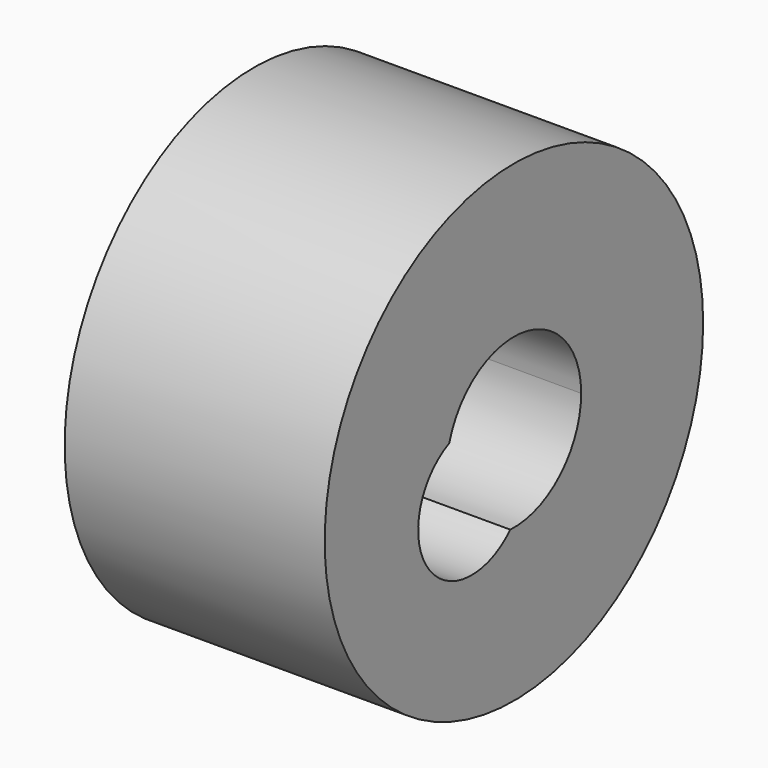
from build123d import *

# Parameters (mm, degrees)
F0_R     = 115.518936
F1_DEPTH = 127


with BuildPart() as f1:
    # F0 (on Right) → F1 (new body)
    with BuildSketch(Plane.YZ):
        with Locations((-24.564411, 67.799918)):
            Circle(F0_R)
        with BuildLine():
            ThreePointArc((-26.789957, 26.805205), (-76.965401, 30.537808), (-64.017291, 79.157289))
            ThreePointArc((-64.017291, 79.157289), (-18.829498, 108.452475), (16.490668, 67.799918))
            ThreePointArc((16.490668, 67.799918), (3.668102, 37.993128), (-26.789957, 26.805205))
        make_face(mode=Mode.SUBTRACT)
    extrude(amount=F1_DEPTH)


solid = f1.part
